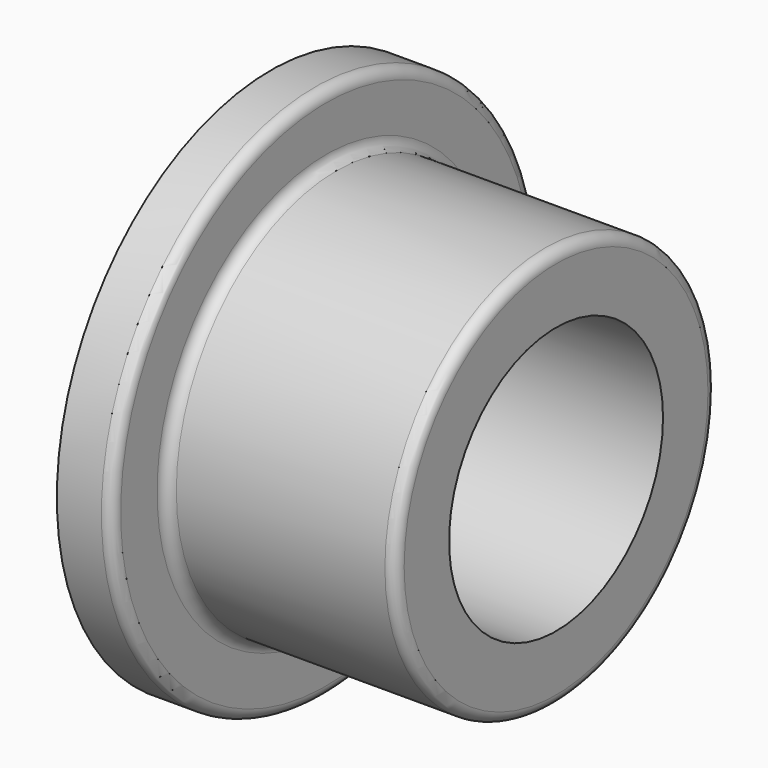
from build123d import *

# Parameters (mm, degrees)
F0_R     = 38.1
F0_R_2   = 19.05
F1_DEPTH = 7.874
F2_R     = 28.575
F2_R_2   = 19.05
F3_DEPTH = 32.766
F4_R     = 1.524


with BuildPart() as f1:
    # F0 (on Right) → F1 (new body)
    with BuildSketch(Plane.YZ):
        Circle(F0_R)
        Circle(F0_R_2, mode=Mode.SUBTRACT)
    extrude(amount=F1_DEPTH)

    # F2 (on face) → F3 (join)
    with BuildSketch(Plane.YZ.offset(7.874)):
        Circle(F2_R)
        Circle(F2_R_2, mode=Mode.SUBTRACT)
    extrude(amount=F3_DEPTH)

    # F4
    f4_edges = [f1.edges().sort_by_distance(p)[0] for p in [
        (7.874, -38.1, 0),
        (7.874, -28.575, 0),
        (40.64, -28.575, 0),
    ]]
    fillet(f4_edges, radius=F4_R)


solid = f1.part
